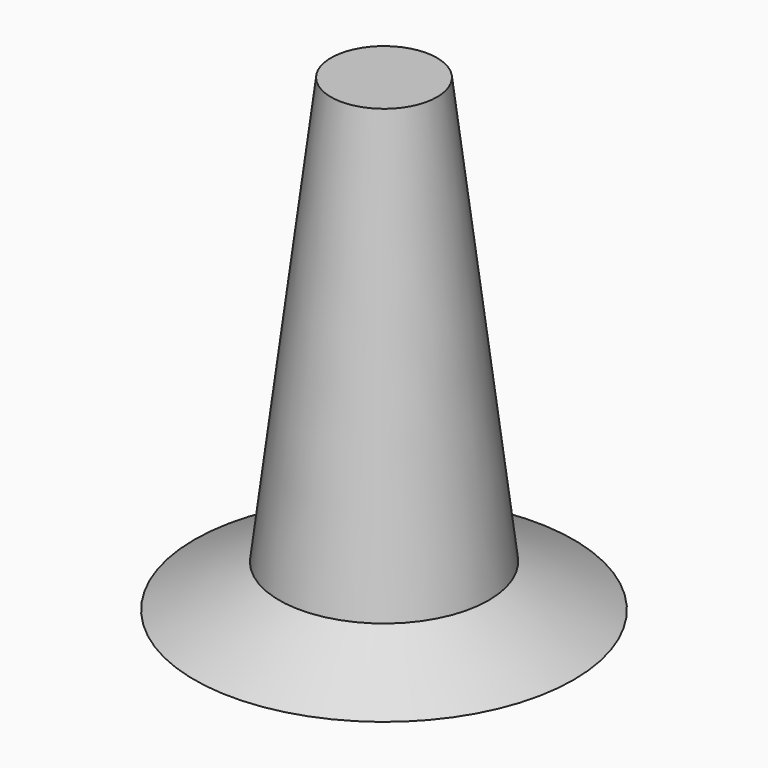
from build123d import *


with BuildPart() as f1:
    # F0 (on Front) → F1 (revolve)
    with BuildSketch(Plane.XZ):
        Polygon((5.08, 26.145688), (0, 26.145688), (0, -13.550081), (10.031194, -14.652174), align=None)
        Polygon((10.031194, -14.652174), (0, -13.550081), (0, -18.712016), (18.158954, -18.712016), align=None)
    revolve(axis=Axis((0, 0, 6.297803), (0, 0, -1)))


solid = f1.part
